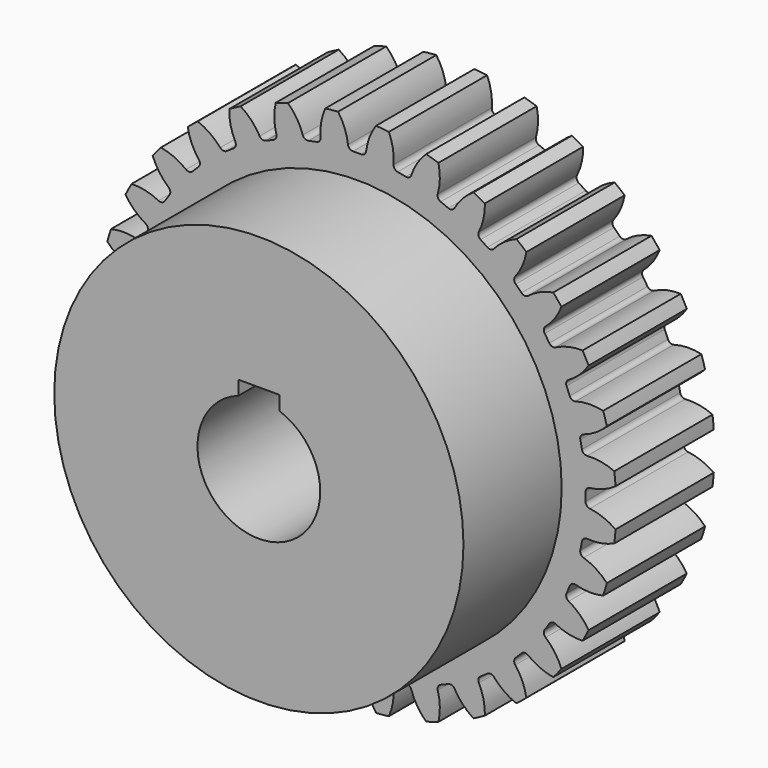
from build123d import *

# Parameters (mm, degrees)
F0_R     = 40.2166666667
F0_R_2   = 38.1
F0_R_3   = 35.4541666667
F1_DEPTH = 9.525
F3_DEPTH = 12.7
F4_COUNT = 32
F6_R     = 31.75
F7_DEPTH = 19.05
F9_DEPTH = 38.101


with BuildPart() as f1:
    # F0 (on Front) → F1 (new body, symmetric)
    with BuildSketch(Plane.XZ):
        Circle(F0_R)
        Circle(F0_R_2, mode=Mode.SUBTRACT)
        Circle(F0_R_2)
        Circle(F0_R_3, mode=Mode.SUBTRACT)
        Circle(F0_R_3)
    extrude(amount=F1_DEPTH, both=True)


with BuildPart() as f3:
    # F2 (on Front) → F3 (new body, symmetric)
    with BuildSketch(Plane.XZ):
        with BuildLine():
            ThreePointArc((-0.6385234518, 35.4484163515), (0, 35.4541666667), (0.6385234518, 35.4484163515))
            ThreePointArc((0.6385234518, 35.4484163515), (1.1530483989, 35.6359741231), (1.4088997219, 36.1201785627))
            ThreePointArc((1.4088997219, 36.1201785627), (2.1050403877, 38.6348716508), (3.5199404746, 40.8272107893))
            ThreePointArc((3.5199404746, 40.8272107893), (0, 40.9786666667), (-3.5199404746, 40.8272107893))
            ThreePointArc((-3.5199404746, 40.8272107893), (-2.1050403877, 38.6348716508), (-1.4088997219, 36.1201785627))
            ThreePointArc((-1.4088997219, 36.1201785627), (-1.1530483989, 35.6359741231), (-0.6385234518, 35.4484163515))
        make_face()
    extrude(amount=F3_DEPTH, both=True)


with BuildPart() as f4_1:
    # F4: instance of F3
    add(f3.part.rotate(Axis((0, 0, 0), (0, -1, 0)), 1 * 360 / F4_COUNT))


with BuildPart() as f4_2:
    # F4: instance of F3
    add(f3.part.rotate(Axis((0, 0, 0), (0, -1, 0)), 2 * 360 / F4_COUNT))


with BuildPart() as f4_3:
    # F4: instance of F3
    add(f3.part.rotate(Axis((0, 0, 0), (0, -1, 0)), 3 * 360 / F4_COUNT))


with BuildPart() as f4_4:
    # F4: instance of F3
    add(f3.part.rotate(Axis((0, 0, 0), (0, -1, 0)), 4 * 360 / F4_COUNT))


with BuildPart() as f4_5:
    # F4: instance of F3
    add(f3.part.rotate(Axis((0, 0, 0), (0, -1, 0)), 5 * 360 / F4_COUNT))


with BuildPart() as f4_6:
    # F4: instance of F3
    add(f3.part.rotate(Axis((0, 0, 0), (0, -1, 0)), 6 * 360 / F4_COUNT))


with BuildPart() as f4_7:
    # F4: instance of F3
    add(f3.part.rotate(Axis((0, 0, 0), (0, -1, 0)), 7 * 360 / F4_COUNT))


with BuildPart() as f4_8:
    # F4: instance of F3
    add(f3.part.rotate(Axis((0, 0, 0), (0, -1, 0)), 8 * 360 / F4_COUNT))


with BuildPart() as f4_9:
    # F4: instance of F3
    add(f3.part.rotate(Axis((0, 0, 0), (0, -1, 0)), 9 * 360 / F4_COUNT))


with BuildPart() as f4_10:
    # F4: instance of F3
    add(f3.part.rotate(Axis((0, 0, 0), (0, -1, 0)), 10 * 360 / F4_COUNT))


with BuildPart() as f4_11:
    # F4: instance of F3
    add(f3.part.rotate(Axis((0, 0, 0), (0, -1, 0)), 11 * 360 / F4_COUNT))


with BuildPart() as f4_12:
    # F4: instance of F3
    add(f3.part.rotate(Axis((0, 0, 0), (0, -1, 0)), 12 * 360 / F4_COUNT))


with BuildPart() as f4_13:
    # F4: instance of F3
    add(f3.part.rotate(Axis((0, 0, 0), (0, -1, 0)), 13 * 360 / F4_COUNT))


with BuildPart() as f4_14:
    # F4: instance of F3
    add(f3.part.rotate(Axis((0, 0, 0), (0, -1, 0)), 14 * 360 / F4_COUNT))


with BuildPart() as f4_15:
    # F4: instance of F3
    add(f3.part.rotate(Axis((0, 0, 0), (0, -1, 0)), 15 * 360 / F4_COUNT))


with BuildPart() as f4_16:
    # F4: instance of F3
    add(f3.part.rotate(Axis((0, 0, 0), (0, -1, 0)), 16 * 360 / F4_COUNT))


with BuildPart() as f4_17:
    # F4: instance of F3
    add(f3.part.rotate(Axis((0, 0, 0), (0, -1, 0)), 17 * 360 / F4_COUNT))


with BuildPart() as f4_18:
    # F4: instance of F3
    add(f3.part.rotate(Axis((0, 0, 0), (0, -1, 0)), 18 * 360 / F4_COUNT))


with BuildPart() as f4_19:
    # F4: instance of F3
    add(f3.part.rotate(Axis((0, 0, 0), (0, -1, 0)), 19 * 360 / F4_COUNT))


with BuildPart() as f4_20:
    # F4: instance of F3
    add(f3.part.rotate(Axis((0, 0, 0), (0, -1, 0)), 20 * 360 / F4_COUNT))


with BuildPart() as f4_21:
    # F4: instance of F3
    add(f3.part.rotate(Axis((0, 0, 0), (0, -1, 0)), 21 * 360 / F4_COUNT))


with BuildPart() as f4_22:
    # F4: instance of F3
    add(f3.part.rotate(Axis((0, 0, 0), (0, -1, 0)), 22 * 360 / F4_COUNT))


with BuildPart() as f4_23:
    # F4: instance of F3
    add(f3.part.rotate(Axis((0, 0, 0), (0, -1, 0)), 23 * 360 / F4_COUNT))


with BuildPart() as f4_24:
    # F4: instance of F3
    add(f3.part.rotate(Axis((0, 0, 0), (0, -1, 0)), 24 * 360 / F4_COUNT))


with BuildPart() as f4_25:
    # F4: instance of F3
    add(f3.part.rotate(Axis((0, 0, 0), (0, -1, 0)), 25 * 360 / F4_COUNT))


with BuildPart() as f4_26:
    # F4: instance of F3
    add(f3.part.rotate(Axis((0, 0, 0), (0, -1, 0)), 26 * 360 / F4_COUNT))


with BuildPart() as f4_27:
    # F4: instance of F3
    add(f3.part.rotate(Axis((0, 0, 0), (0, -1, 0)), 27 * 360 / F4_COUNT))


with BuildPart() as f4_28:
    # F4: instance of F3
    add(f3.part.rotate(Axis((0, 0, 0), (0, -1, 0)), 28 * 360 / F4_COUNT))


with BuildPart() as f4_29:
    # F4: instance of F3
    add(f3.part.rotate(Axis((0, 0, 0), (0, -1, 0)), 29 * 360 / F4_COUNT))


with BuildPart() as f4_30:
    # F4: instance of F3
    add(f3.part.rotate(Axis((0, 0, 0), (0, -1, 0)), 30 * 360 / F4_COUNT))


with BuildPart() as f4_31:
    # F4: instance of F3
    add(f3.part.rotate(Axis((0, 0, 0), (0, -1, 0)), 31 * 360 / F4_COUNT))


with BuildPart() as f1_1:
    add(f1.part)

    # F5: cut F4_1, F4_2, F4_3, F4_4, F4_5, F4_6, F4_7, F4_8, F4_9, F4_10, F4_11, F4_12, F4_13, F4_14, F4_15, F4_16, F4_17, F4_18, F4_19, F4_20, F4_21, F4_22, F4_23, F4_24, F4_25, F4_26, F4_27, F4_28, F4_29, F4_30, F4_31, F3
    add(f4_1.part, mode=Mode.SUBTRACT)
    add(f4_2.part, mode=Mode.SUBTRACT)
    add(f4_3.part, mode=Mode.SUBTRACT)
    add(f4_4.part, mode=Mode.SUBTRACT)
    add(f4_5.part, mode=Mode.SUBTRACT)
    add(f4_6.part, mode=Mode.SUBTRACT)
    add(f4_7.part, mode=Mode.SUBTRACT)
    add(f4_8.part, mode=Mode.SUBTRACT)
    add(f4_9.part, mode=Mode.SUBTRACT)
    add(f4_10.part, mode=Mode.SUBTRACT)
    add(f4_11.part, mode=Mode.SUBTRACT)
    add(f4_12.part, mode=Mode.SUBTRACT)
    add(f4_13.part, mode=Mode.SUBTRACT)
    add(f4_14.part, mode=Mode.SUBTRACT)
    add(f4_15.part, mode=Mode.SUBTRACT)
    add(f4_16.part, mode=Mode.SUBTRACT)
    add(f4_17.part, mode=Mode.SUBTRACT)
    add(f4_18.part, mode=Mode.SUBTRACT)
    add(f4_19.part, mode=Mode.SUBTRACT)
    add(f4_20.part, mode=Mode.SUBTRACT)
    add(f4_21.part, mode=Mode.SUBTRACT)
    add(f4_22.part, mode=Mode.SUBTRACT)
    add(f4_23.part, mode=Mode.SUBTRACT)
    add(f4_24.part, mode=Mode.SUBTRACT)
    add(f4_25.part, mode=Mode.SUBTRACT)
    add(f4_26.part, mode=Mode.SUBTRACT)
    add(f4_27.part, mode=Mode.SUBTRACT)
    add(f4_28.part, mode=Mode.SUBTRACT)
    add(f4_29.part, mode=Mode.SUBTRACT)
    add(f4_30.part, mode=Mode.SUBTRACT)
    add(f4_31.part, mode=Mode.SUBTRACT)
    add(f3.part, mode=Mode.SUBTRACT)

    # F6 (on face) → F7 (join)
    with BuildSketch(Plane.XZ.offset(9.525)):
        Circle(F6_R)
    extrude(amount=F7_DEPTH)

    # F8 (on face) → F9 (cut, through all)
    with BuildSketch(Plane.XZ.offset(28.575)):
        with BuildLine():
            Line((-3.175, 11.176), (-3.175, 8.9802561211))
            ThreePointArc((-3.175, 8.9802561211), (0, -9.525), (3.175, 8.9802561211))
            Line((3.175, 8.9802561211), (3.175, 11.176))
            Line((3.175, 11.176), (-3.175, 11.176))
        make_face()
    extrude(amount=-F9_DEPTH, mode=Mode.SUBTRACT)


solid = f1_1.part
